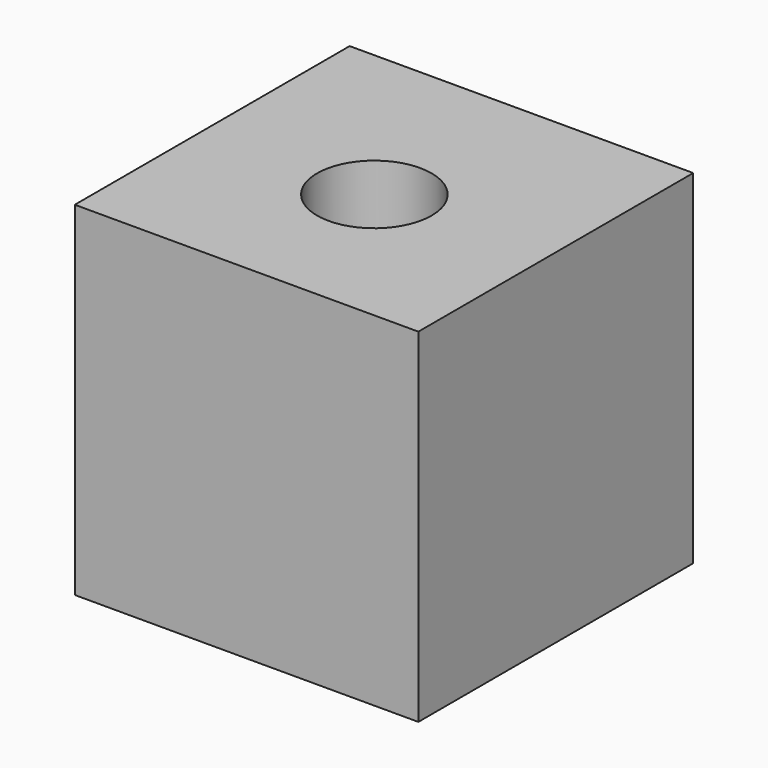
from build123d import *

# Parameters (mm, degrees)
F0_W     = 152.4
F0_H     = 152.4
F1_DEPTH = 152.4
F2_R     = 25.4
F3_DEPTH = 152.401


with BuildPart() as f1:
    # F0 (on Top) → F1 (new body)
    with BuildSketch(Plane.XY):
        Rectangle(F0_W, F0_H)
    extrude(amount=F1_DEPTH)

    # F2 (on face) → F3 (cut, through all)
    with BuildSketch(Plane(origin=(0, 0, 0), x_dir=(1, 0, 0), z_dir=(0, 0, -1))):
        with Locations((0, 5.349143)):
            Circle(F2_R)
    extrude(amount=-F3_DEPTH, mode=Mode.SUBTRACT)


solid = f1.part
